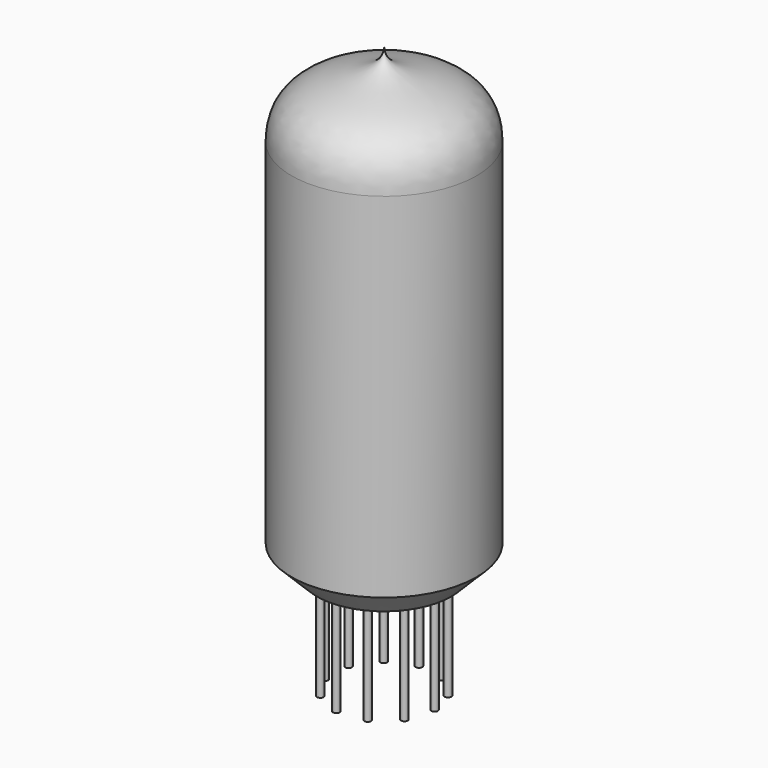
from build123d import *

# Parameters (mm, degrees)
CHAMFER001_SIZE    = 3
SKETCH013_R        = 0.4
PAD008_DEPTH       = 12.5
POLARPATTERN_COUNT = 11
POLARPATTERN_ANGLE = 330


with BuildPart() as part:
    # Sketch012 → Revolution (revolve)
    with BuildSketch(Plane.XZ):
        with BuildLine():
            Line((0, 55), (0, 0))
            Line((0, 0), (11, 0))
            Line((11, 0), (11, 45))
            add(Edge.make_bspline(
                [(0, 55), (0, 50.541328), (11, 53.4418), (11, 45)],
                knots=[0, 0, 0, 0, 1, 1, 1, 1], degree=3))
        make_face()
    revolve(axis=Axis((0, 0, 0), (0, 0, 1)))

    # Chamfer001
    chamfer001_edges = [part.edges().sort_by_distance(p)[0] for p in [
        (-11, 0, 0),
    ]]
    chamfer(chamfer001_edges, length=CHAMFER001_SIZE)

    # Sketch013 (on Face1 of Revolution) → Pad008 (new body)
    with BuildSketch(Plane(origin=(0, 0, 0), x_dir=(1, 0, 0), z_dir=(0, 0, -1))):
        with Locations((6, 0)):
            Circle(SKETCH013_R)
    pad008 = extrude(amount=PAD008_DEPTH)

    # PolarPattern: Pad008 ×11 about axis
    polarpattern_axis = Axis((0, 0, 0), (0, 0, -1))
    for i in range(1, POLARPATTERN_COUNT):
        add(pad008.rotate(polarpattern_axis, i * POLARPATTERN_ANGLE / (POLARPATTERN_COUNT - 1)))


with BuildPart() as part_1:
    # Body002 placement: moved
    add(part.part.moved(Location((4, 19, 0))))


solid = part_1.part
